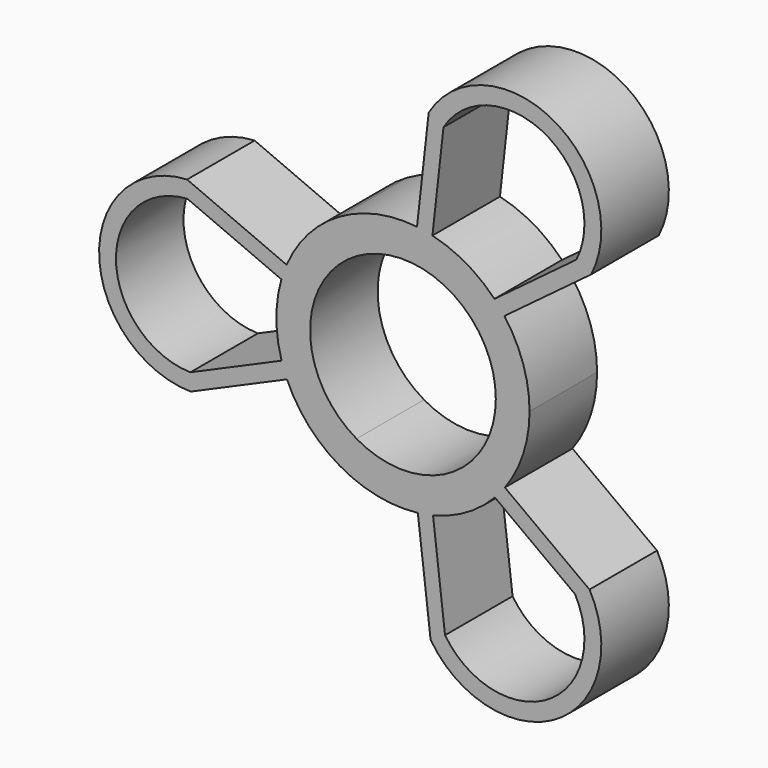
from build123d import *

# Parameters (mm, degrees)
F1_DEPTH = 10


with BuildPart() as f1:
    # F0 (on Front) → F1 (new body)
    with BuildSketch(Plane.XZ):
        with BuildLine():
            Line((-13.782156, 5.920488), (-25.571984, 10.985119))
            ThreePointArc((-25.571984, 10.985119), (-35.99794, -0.212881), (-25.146449, -10.999025))
            Line((-25.146449, -10.999025), (-13.742871, -6.011114))
            ThreePointArc((-13.742871, -6.011114), (-11.180001, -10.000378), (-7.5, -12.990381))
            ThreePointArc((-7.5, -12.990381), (-3.022223, -14.692385), (1.763785, -14.895941))
            Line((1.763785, -14.895941), (3.2726, -27.638547))
            ThreePointArc((3.2726, -27.638547), (18.18333, -31.06869), (22.09866, -16.277951))
            Line((22.09866, -16.277951), (12.077213, -8.896118))
            ThreePointArc((12.077213, -8.896118), (14.250582, -4.681976), (15, 0))
            ThreePointArc((15, 0), (14.23509, 4.728871), (12.018371, 8.975453))
            Line((12.018371, 8.975453), (22.299384, 16.653429))
            ThreePointArc((22.299384, 16.653429), (17.81461, 31.281571), (3.04779, 27.276976))
            Line((3.04779, 27.276976), (1.665658, 14.907233))
            ThreePointArc((1.665658, 14.907233), (-3.070581, 14.682354), (-7.5, 12.990381))
            ThreePointArc((-7.5, 12.990381), (-11.212867, 9.963514), (-13.782156, 5.920488))
        make_face()
        with BuildLine():
            Line((-25.533253, 8.984188), (-14.399584, 4.201428))
            ThreePointArc((-14.399584, 4.201428), (-14.999956, -0.036507), (-14.378962, -4.271469))
            Line((-14.378962, -4.271469), (-25.18518, -8.998095))
            ThreePointArc((-25.18518, -8.998095), (-33.998314, -0.174175), (-25.533253, 8.984188))
        make_face(mode=Mode.SUBTRACT)
        with BuildLine():
            Line((10.888681, -10.316812), (20.385169, -17.311959))
            ThreePointArc((20.385169, -17.311959), (17.149998, -29.356316), (4.986091, -26.60454))
            Line((4.986091, -26.60454), (3.561249, -14.571119))
            ThreePointArc((3.561249, -14.571119), (7.531594, -12.972089), (10.888681, -10.316812))
        make_face(mode=Mode.SUBTRACT)
        with BuildLine():
            ThreePointArc((-5.5, -9.526279), (-11, 0), (-5.5, 9.526279))
            ThreePointArc((-5.5, 9.526279), (5.5, 9.526279), (11, 0))
            ThreePointArc((11, 0), (5.5, -9.526279), (-5.5, -9.526279))
        make_face(mode=Mode.SUBTRACT)
        with BuildLine():
            Line((3.490281, 14.588281), (4.800012, 26.310053))
            ThreePointArc((4.800012, 26.310053), (16.848317, 29.530492), (20.547162, 17.620352))
            Line((20.547162, 17.620352), (10.838335, 10.369691))
            ThreePointArc((10.838335, 10.369691), (7.468362, 13.008596), (3.490281, 14.588281))
        make_face(mode=Mode.SUBTRACT)
    extrude(amount=F1_DEPTH)


solid = f1.part
